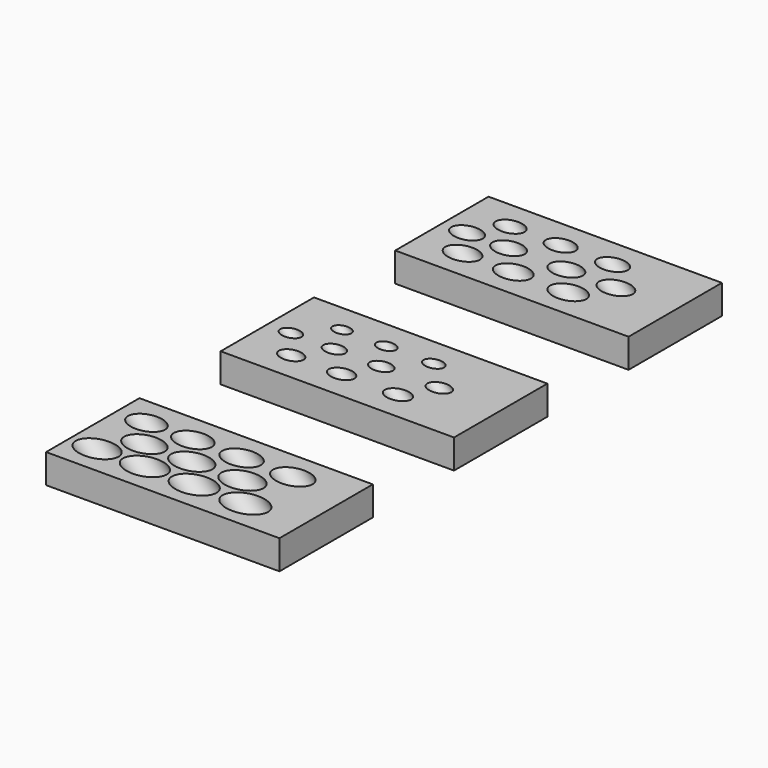
from build123d import *

# Parameters (mm, degrees)
F0_W     = 50.8
F0_H     = 25.4
F1_DEPTH = 6.35
F3_R     = 2.413
F3_R_2   = 2.4765
F3_R_3   = 2.54
F3_R_4   = 2.6035
F3_R_5   = 2.2225
F3_R_6   = 2.286
F3_R_7   = 2.3495
F3_R_8   = 1.4605
F3_R_9   = 1.524
F3_R_10  = 1.5875
F3_R_11  = 1.651
F3_R_12  = 1.7145
F3_R_13  = 1.778
F3_R_14  = 1.8415
F3_R_15  = 1.905
F3_R_16  = 1.9685
F3_R_17  = 2.032
F3_R_18  = 2.8575
F3_R_19  = 2.921
F3_R_20  = 2.9845
F3_R_21  = 3.048
F3_R_22  = 3.1115
F3_R_23  = 3.175
F3_R_24  = 3.2385
F3_R_25  = 3.302
F3_R_26  = 3.3655
F3_R_27  = 3.429
F3_R_28  = 3.4925
F4_DEPTH = 40.412153


with BuildPart() as f1:
    # F0 (on Top) → F1 (new body)
    with BuildSketch(Plane.XY):
        Rectangle(F0_W, F0_H)
        with Locations((0, -47.498917)):
            Rectangle(F0_W, F0_H)
        with Locations((0, -94.997835)):
            Rectangle(F0_W, F0_H)
    extrude(amount=-F1_DEPTH)

    # F3 (on face) → F4 (cut, through all)
    with BuildSketch(Plane(origin=(-12.7, 0, 12.7), x_dir=(0.707107, 0, 0.707107), z_dir=(0.707107, 0, -0.707107))):
        with Locations((-14.087985, 0)):
            Circle(F3_R)
        with Locations((-7.69299, 0)):
            Circle(F3_R_2)
        with Locations((1.201535, 0)):
            Circle(F3_R_3)
        with Locations((8.820742, 0)):
            Circle(F3_R_4)
        with Locations((-11.052282, -6.35)):
            Circle(F3_R_5)
        with Locations((-3.26482, -6.35)):
            Circle(F3_R_6)
        with Locations((4.716604, -6.35)):
            Circle(F3_R_7)
        with BuildLine():
            ThreePointArc((-8.515703, 6.35), (-11.182703, 9.017), (-13.849703, 6.35))
            Line((-13.849703, 6.35), (-8.515703, 6.35))
        make_face()
        with BuildLine():
            ThreePointArc((7.867969, 6.35), (5.073969, 9.144), (2.279969, 6.35))
            Line((2.279969, 6.35), (7.867969, 6.35))
        make_face()
        with BuildLine():
            Line((7.867969, 6.35), (2.279969, 6.35))
            ThreePointArc((2.279969, 6.35), (5.073969, 3.556), (7.867969, 6.35))
        make_face()
        with BuildLine():
            ThreePointArc((-0.650082, 6.35), (-3.380582, 9.0805), (-6.111082, 6.35))
            Line((-6.111082, 6.35), (-0.650082, 6.35))
        make_face()
        with BuildLine():
            Line((-0.650082, 6.35), (-6.111082, 6.35))
            ThreePointArc((-6.111082, 6.35), (-3.380582, 3.6195), (-0.650082, 6.35))
        make_face()
        with BuildLine():
            Line((-8.515703, 6.35), (-13.849703, 6.35))
            ThreePointArc((-13.849703, 6.35), (-11.182703, 3.683), (-8.515703, 6.35))
        make_face()
        with Locations((-10.059712, 41.148917)):
            Circle(F3_R_8)
        with Locations((-3.245286, 41.148917)):
            Circle(F3_R_9)
        with Locations((4.072146, 41.148917)):
            Circle(F3_R_10)
        with Locations((-14.333134, 47.498917)):
            Circle(F3_R_11)
        with Locations((-7.63437, 47.498917)):
            Circle(F3_R_12)
        with Locations((-0.415823, 47.499426)):
            Circle(F3_R_13)
        with Locations((8.509114, 47.498917)):
            Circle(F3_R_14)
        with Locations((-10.687235, 53.848917)):
            Circle(F3_R_15)
        with Locations((-2.925724, 53.848917)):
            Circle(F3_R_16)
        with Locations((5.741491, 53.848917)):
            Circle(F3_R_17)
        with Locations((-13.284916, 88.647835)):
            Circle(F3_R_18)
        with Locations((-6.14794, 88.647835)):
            Circle(F3_R_19)
        with Locations((1.353626, 88.647835)):
            Circle(F3_R_20)
        with Locations((9.245136, 88.647835)):
            Circle(F3_R_21)
        with Locations((-10.013385, 94.997835)):
            Circle(F3_R_22)
        with Locations((-2.720213, 94.997835)):
            Circle(F3_R_23)
        with Locations((5.082194, 94.997835)):
            Circle(F3_R_24)
        with Locations((-13.699011, 101.347835)):
            Circle(F3_R_25)
        with Locations((-6.347252, 101.347835)):
            Circle(F3_R_26)
        with Locations((1.247012, 101.347835)):
            Circle(F3_R_27)
        with Locations((9.119167, 101.347835)):
            Circle(F3_R_28)
    extrude(amount=F4_DEPTH, mode=Mode.SUBTRACT)


solid = f1.part
